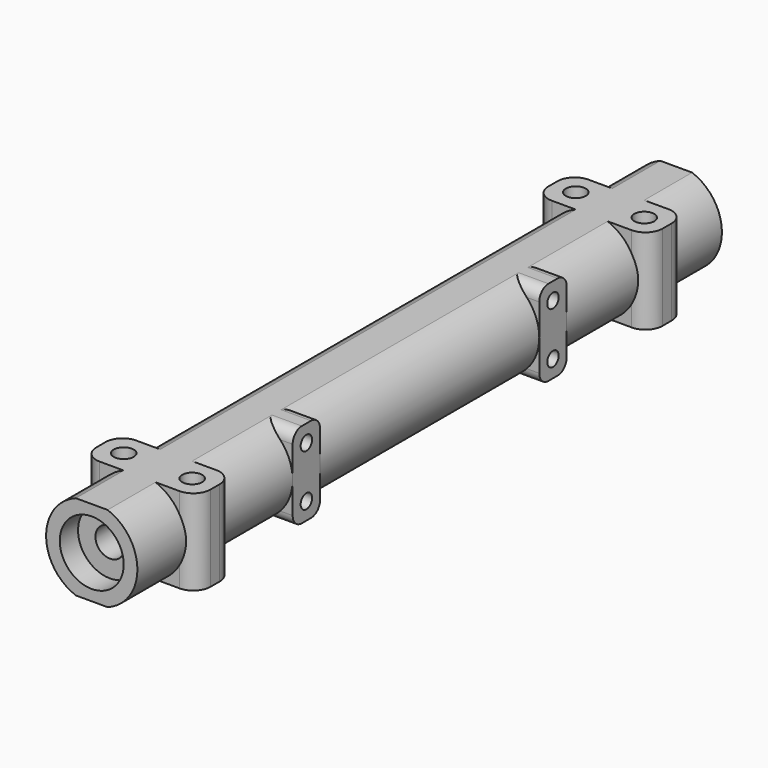
from build123d import *

# Parameters (mm, degrees)
CYLINDER563_R     = 1.5
CYLINDER563_DEPTH = 6
BOX350_W          = 20
BOX350_H          = 128
BOX350_DEPTH      = 1
BOX349_W          = 20
BOX349_H          = 128
BOX349_DEPTH      = 1
CYLINDER556_R     = 2.8
CYLINDER556_DEPTH = 25
CYLINDER557_R     = 2.8
CYLINDER557_DEPTH = 25
CYLINDER565_R     = 1.75
CYLINDER565_DEPTH = 15
CYLINDER564_R     = 1.75
CYLINDER564_DEPTH = 15
CYLINDER551_R     = 1.75
CYLINDER551_DEPTH = 15
CYLINDER552_R     = 1.75
CYLINDER552_DEPTH = 15
CYLINDER558_R     = 1.25
CYLINDER558_DEPTH = 10
CYLINDER559_R     = 1.25
CYLINDER559_DEPTH = 10
CYLINDER560_R     = 1.25
CYLINDER560_DEPTH = 10
CYLINDER561_R     = 1.25
CYLINDER561_DEPTH = 10
CYLINDER555_R     = 5.6
CYLINDER555_DEPTH = 4
CYLINDER562_R     = 5.6
CYLINDER562_DEPTH = 4
CYLINDER554_R     = 2.55
CYLINDER554_DEPTH = 128
BOX347_W          = 5.5
BOX347_H          = 6
BOX347_DEPTH      = 15
BOX348_W          = 5.5
BOX348_H          = 6
BOX348_DEPTH      = 15
FILLET135_R       = 2
BOX346_W          = 20
BOX346_H          = 8
BOX346_DEPTH      = 15
FILLET134_R       = 3
BOX345_W          = 20
BOX345_H          = 8
BOX345_DEPTH      = 15
FILLET133_R       = 3
CYLINDER553_R     = 8
CYLINDER553_DEPTH = 128


with BuildPart() as cylinder658:
    # Cylinder563 → Cylinder563 (new body)
    with BuildSketch(Plane.XY.offset(-7.5)):
        Circle(CYLINDER563_R)
    extrude(amount=CYLINDER563_DEPTH)


with BuildPart() as cube421:
    # Box350 → Box350 (new body)
    with BuildSketch(Plane(origin=(-10, -64, 7.5), x_dir=(1, 0, 0), z_dir=(0, 0, 1))):
        with Locations((10, 64)):
            Rectangle(BOX350_W, BOX350_H)
    extrude(amount=BOX350_DEPTH)


with BuildPart() as fusion482:
    # Box349 → Box349 (new body)
    with BuildSketch(Plane(origin=(-10, -64, -8.5), x_dir=(1, 0, 0), z_dir=(0, 0, 1))):
        with Locations((10, 64)):
            Rectangle(BOX349_W, BOX349_H)
    extrude(amount=BOX349_DEPTH)

    # Fusion482: union Cube421
    add(cube421.part)


with BuildPart() as cylinder651:
    # Cylinder556 → Cylinder556 (new body)
    with BuildSketch(Plane(origin=(0, -30, 0), x_dir=(1, 0, 0), z_dir=(0, 1, 0))):
        Circle(CYLINDER556_R)
    extrude(amount=CYLINDER556_DEPTH)


with BuildPart() as fusion473:
    # Cylinder557 → Cylinder557 (new body)
    with BuildSketch(Plane(origin=(0, 5, 0), x_dir=(1, 0, 0), z_dir=(0, 1, 0))):
        Circle(CYLINDER557_R)
    extrude(amount=CYLINDER557_DEPTH)

    # Fusion473: union Cylinder651
    add(cylinder651.part)


with BuildPart() as cylinder660:
    # Cylinder565 → Cylinder565 (new body)
    with BuildSketch(Plane(origin=(13.5, -49.5, 13), x_dir=(1, 0, 0), z_dir=(0, 0, 1))):
        Circle(CYLINDER565_R)
    extrude(amount=CYLINDER565_DEPTH)


with BuildPart() as fusion483:
    # Cylinder564 → Cylinder564 (new body)
    with BuildSketch(Plane(origin=(13.5, 49.5, 13), x_dir=(1, 0, 0), z_dir=(0, 0, 1))):
        Circle(CYLINDER564_R)
    extrude(amount=CYLINDER564_DEPTH)

    # Fusion483: union Cylinder660
    add(cylinder660.part)


with BuildPart() as cylinder646:
    # Cylinder551 → Cylinder551 (new body)
    with BuildSketch(Plane(origin=(13.5, -49.5, 13), x_dir=(1, 0, 0), z_dir=(0, 0, 1))):
        Circle(CYLINDER551_R)
    extrude(amount=CYLINDER551_DEPTH)


with BuildPart() as fusion472:
    # Cylinder552 → Cylinder552 (new body)
    with BuildSketch(Plane(origin=(13.5, 49.5, 13), x_dir=(1, 0, 0), z_dir=(0, 0, 1))):
        Circle(CYLINDER552_R)
    extrude(amount=CYLINDER552_DEPTH)

    # Fusion471: union Cylinder646
    add(cylinder646.part)


with BuildPart() as fusion472_1:
    # Fusion471 placement: moved
    add(fusion472.part.moved(Location((-12, 0, 0))))

    # Fusion472: union Fusion483
    add(fusion483.part)


with BuildPart() as fusion472_2:
    # Fusion472 placement: moved
    add(fusion472_1.part.moved(Location((-7.5, 0, -20.5))))


with BuildPart() as cylinder653:
    # Cylinder558 → Cylinder558 (new body)
    with BuildSketch(Plane(origin=(0, -27, 4.5), x_dir=(0, 0, -1), z_dir=(1, 0, 0))):
        Circle(CYLINDER558_R)
    extrude(amount=CYLINDER558_DEPTH)


with BuildPart() as fusion476:
    # Cylinder559 → Cylinder559 (new body)
    with BuildSketch(Plane(origin=(0, -27, -4.5), x_dir=(0, 0, -1), z_dir=(1, 0, 0))):
        Circle(CYLINDER559_R)
    extrude(amount=CYLINDER559_DEPTH)

    # Fusion476: union Cylinder653
    add(cylinder653.part)


with BuildPart() as cylinder655:
    # Cylinder560 → Cylinder560 (new body)
    with BuildSketch(Plane(origin=(0, -27, 4.5), x_dir=(0, 0, -1), z_dir=(1, 0, 0))):
        Circle(CYLINDER560_R)
    extrude(amount=CYLINDER560_DEPTH)


with BuildPart() as fusion478:
    # Cylinder561 → Cylinder561 (new body)
    with BuildSketch(Plane(origin=(0, -27, -4.5), x_dir=(0, 0, -1), z_dir=(1, 0, 0))):
        Circle(CYLINDER561_R)
    extrude(amount=CYLINDER561_DEPTH)

    # Fusion477: union Cylinder655
    add(cylinder655.part)


with BuildPart() as fusion478_1:
    # Fusion477 placement: moved
    add(fusion478.part.moved(Location((0, 54, 0))))

    # Fusion478: union Fusion476
    add(fusion476.part)


with BuildPart() as fusion478_2:
    # Fusion478 placement: moved
    add(fusion478_1.part.moved(Location((-2, 0, 0))))


with BuildPart() as cylinder650:
    # Cylinder555 → Cylinder555 (new body)
    with BuildSketch(Plane(origin=(0, -64, 0), x_dir=(1, 0, 0), z_dir=(0, 1, 0))):
        Circle(CYLINDER555_R)
    extrude(amount=CYLINDER555_DEPTH)


with BuildPart() as fusion479:
    # Cylinder562 → Cylinder562 (new body)
    with BuildSketch(Plane(origin=(0, 60, 0), x_dir=(1, 0, 0), z_dir=(0, 1, 0))):
        Circle(CYLINDER562_R)
    extrude(amount=CYLINDER562_DEPTH)

    # Fusion479: union Cylinder650
    add(cylinder650.part)


with BuildPart() as fusion480:
    # Cylinder554 → Cylinder554 (new body)
    with BuildSketch(Plane(origin=(0, -64, 0), x_dir=(1, 0, 0), z_dir=(0, 1, 0))):
        Circle(CYLINDER554_R)
    extrude(amount=CYLINDER554_DEPTH)

    # Fusion480: union Fusion479
    add(fusion479.part)


with BuildPart() as cube418:
    # Box347 → Box347 (new body)
    with BuildSketch(Plane(origin=(2.5, -30, -7.5), x_dir=(1, 0, 0), z_dir=(0, 0, 1))):
        with Locations((2.75, 3)):
            Rectangle(BOX347_W, BOX347_H)
    extrude(amount=BOX347_DEPTH)


with BuildPart() as fillet135:
    # Box348 → Box348 (new body)
    with BuildSketch(Plane(origin=(2.5, 24, -7.5), x_dir=(1, 0, 0), z_dir=(0, 0, 1))):
        with Locations((2.75, 3)):
            Rectangle(BOX348_W, BOX348_H)
    extrude(amount=BOX348_DEPTH)

    # Fusion474: union Cube418
    add(cube418.part)

    # Fillet135
    fillet135_edges = [fillet135.edges().sort_by_distance(p)[0] for p in [
        (5.25, 24, -7.5),
        (5.25, 24, 7.5),
        (5.25, 30, -7.5),
        (5.25, 30, 7.5),
        (5.25, -30, -7.5),
        (5.25, -30, 7.5),
        (5.25, -24, -7.5),
        (5.25, -24, 7.5),
    ]]
    fillet(fillet135_edges, radius=FILLET135_R)


with BuildPart() as fillet134:
    # Box346 → Box346 (new body)
    with BuildSketch(Plane(origin=(-10, -53.5, -7.5), x_dir=(1, 0, 0), z_dir=(0, 0, 1))):
        with Locations((10, 4)):
            Rectangle(BOX346_W, BOX346_H)
    extrude(amount=BOX346_DEPTH)

    # Fillet134
    fillet134_edges = [fillet134.edges().sort_by_distance(p)[0] for p in [
        (-10, -53.5, 0),
        (-10, -45.5, 0),
        (10, -53.5, 0),
        (10, -45.5, 0),
    ]]
    fillet(fillet134_edges, radius=FILLET134_R)


with BuildPart() as fillet133:
    # Box345 → Box345 (new body)
    with BuildSketch(Plane(origin=(-10, -53.5, -7.5), x_dir=(1, 0, 0), z_dir=(0, 0, 1))):
        with Locations((10, 4)):
            Rectangle(BOX345_W, BOX345_H)
    extrude(amount=BOX345_DEPTH)

    # Fillet133
    fillet133_edges = [fillet133.edges().sort_by_distance(p)[0] for p in [
        (-10, -53.5, 0),
        (-10, -45.5, 0),
        (10, -53.5, 0),
        (10, -45.5, 0),
    ]]
    fillet(fillet133_edges, radius=FILLET133_R)


with BuildPart() as fillet133_1:
    # Fillet133 placement: moved
    add(fillet133.part.moved(Location((0, 99, 0))))


with BuildPart() as axle_rear_wide:
    # Cylinder553 → Cylinder553 (new body)
    with BuildSketch(Plane(origin=(0, -64, 0), x_dir=(1, 0, 0), z_dir=(0, 1, 0))):
        Circle(CYLINDER553_R)
    extrude(amount=CYLINDER553_DEPTH)

    # Fusion481: union Fillet134, Fillet133
    add(fillet134.part)
    add(fillet133_1.part)

    # Fusion475: union Fillet135
    add(fillet135.part)

    # Cut361: cut Fusion480
    add(fusion480.part, mode=Mode.SUBTRACT)

    # Cut362: cut Fusion478
    add(fusion478_2.part, mode=Mode.SUBTRACT)

    # Cut363: cut Fusion472
    add(fusion472_2.part, mode=Mode.SUBTRACT)

    # Cut364: cut Fusion473
    add(fusion473.part, mode=Mode.SUBTRACT)

    # Cut365: cut Fusion482
    add(fusion482.part, mode=Mode.SUBTRACT)

    # Cut366: cut Cylinder658
    add(cylinder658.part, mode=Mode.SUBTRACT)


with BuildPart() as axle_rear_wide_1:
    # Cut366 placement: moved
    add(axle_rear_wide.part.moved(Location((555, 31, -41.5))))


solid = axle_rear_wide_1.part
